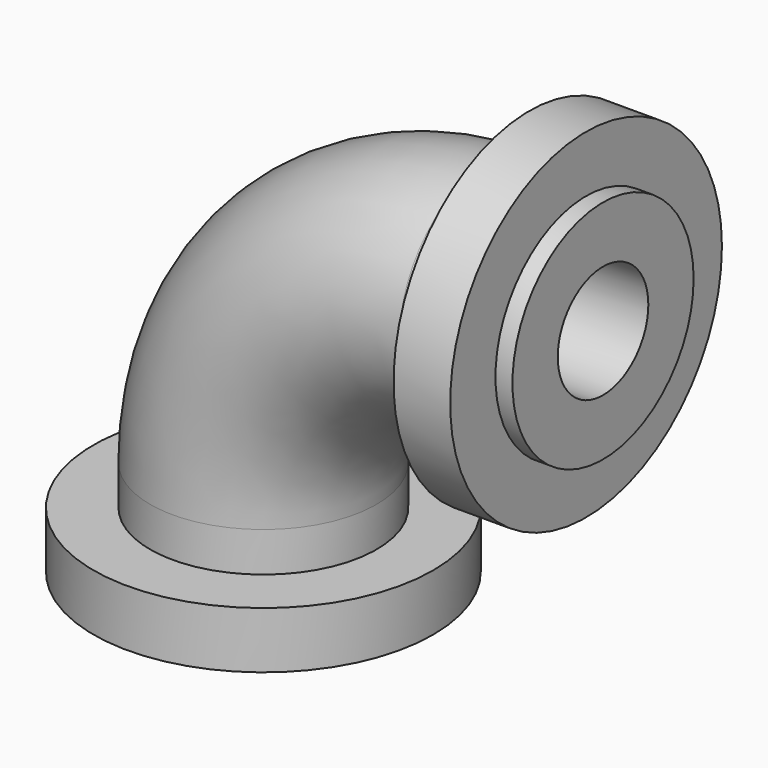
from build123d import *

# Parameters (mm, degrees)
F0_R     = 20
F0_R_2   = 10
F4_R     = 30
F4_R_2   = 20
F5_DEPTH = 10
F7_R     = 30
F7_R_2   = 20
F8_DEPTH = 10


with BuildPart() as f2:
    # F2: sweep along a path in F1
    with BuildLine(Plane.XZ) as f2_path:
        Line((0, 0), (-20, 0))
        ThreePointArc((-20, 0), (-48.2842712475, -11.7157287525), (-60, -40))
        Line((-60, -40), (-60, -60))
    # F0 (on Right) → F2 (sweep)
    with BuildSketch(Plane.YZ):
        Circle(F0_R)
        Circle(F0_R_2, mode=Mode.SUBTRACT)
    sweep(path=f2_path.line)

    # F4 (on offset) → F5 (join)
    with BuildSketch(Plane.YZ.offset(-3)):
        Circle(F4_R)
        Circle(F4_R_2, mode=Mode.SUBTRACT)
    extrude(amount=-F5_DEPTH)

    # F7 (on offset) → F8 (join)
    with BuildSketch(Plane(origin=(0, 0, -57), x_dir=(1, 0, 0), z_dir=(0, 0, -1))):
        with Locations((-60, 0)):
            Circle(F7_R)
        with Locations((-60, 0)):
            Circle(F7_R_2, mode=Mode.SUBTRACT)
    extrude(amount=-F8_DEPTH)


solid = f2.part
